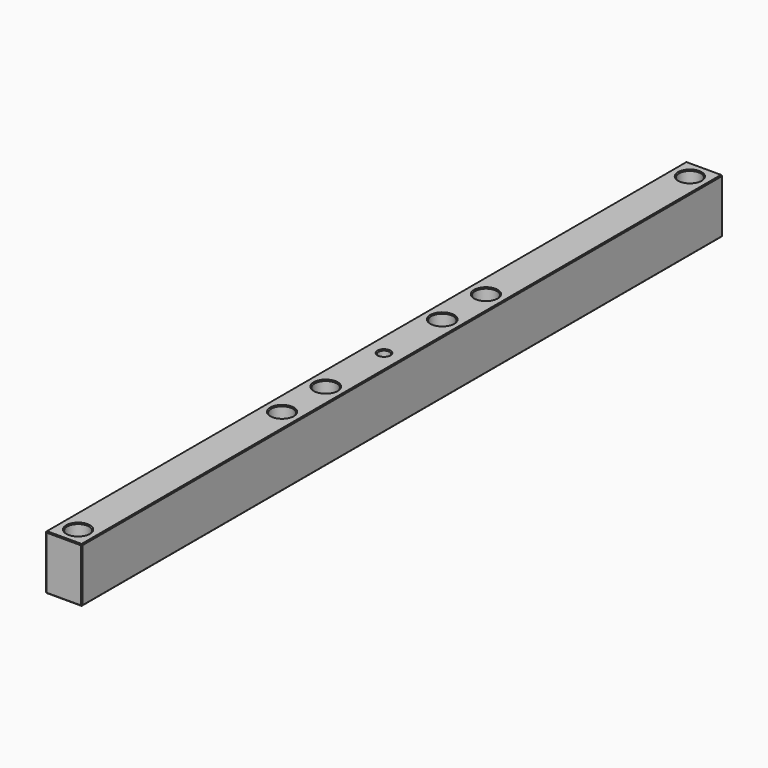
from build123d import *

# Parameters (mm, degrees)
SKETCH_W        = 10
SKETCH_H        = 15
PAD_DEPTH       = 220
SKETCH001_R     = 3
POCKET_DEPTH    = 15.001
SKETCH002_R     = 3.05
SKETCH002_R_2   = 1.55
POCKET001_DEPTH = 15.001
SKETCH003_R     = 1.5
POCKET002_DEPTH = 5
CHAMFER_SIZE    = 0.25


with BuildPart() as part:
    # Sketch → Pad (new body)
    with BuildSketch(Plane.XZ):
        with Locations((5, 7.5)):
            Rectangle(SKETCH_W, SKETCH_H)
    extrude(amount=PAD_DEPTH)

    # Sketch001 (on Face3 of Pad) → Pocket (cut, through all)
    with BuildSketch(Plane(origin=(0, 0, 15), x_dir=(-1, 0, 0), z_dir=(0, 0, 1))):
        with Locations((-5, 215)):
            Circle(SKETCH001_R)
        with Locations((-5, 145)):
            Circle(SKETCH001_R)
        with Locations((-5, 75)):
            Circle(SKETCH001_R)
        with Locations((-5, 5)):
            Circle(SKETCH001_R)
    extrude(amount=-POCKET_DEPTH, mode=Mode.SUBTRACT)

    # Sketch002 (on Face10 of Pocket) → Pocket001 (cut, through all)
    with BuildSketch(Plane(origin=(0, 0, 15), x_dir=(-1, 0, 0), z_dir=(0, 0, 1))):
        with Locations((-5, 130)):
            Circle(SKETCH002_R)
        with Locations((-5, 110)):
            Circle(SKETCH002_R_2)
        with Locations((-5, 90)):
            Circle(SKETCH002_R)
    extrude(amount=-POCKET001_DEPTH, mode=Mode.SUBTRACT)

    # Sketch003 (on Face2 of Pocket001) → Pocket002 (cut)
    with BuildSketch(Plane(origin=(0, 0, 0), x_dir=(0, 0, -1), z_dir=(-1, 0, 0))):
        with Locations((-7.5, 130)):
            Circle(SKETCH003_R)
        with Locations((-7.5, 110)):
            Circle(SKETCH003_R)
        with Locations((-7.5, 90)):
            Circle(SKETCH003_R)
    extrude(amount=-POCKET002_DEPTH, mode=Mode.SUBTRACT)

    # Chamfer
    chamfer_edges = [part.edges().sort_by_distance(p)[0] for p in [
        (0, -110, 15),
        (0, 0, 7.5),
        (0, -220, 7.5),
        (0, -110, 0),
        (0, -130, 9),
        (0, -110, 9),
        (0, -90, 9),
        (10, -110, 15),
        (5, 0, 15),
        (5, -220, 15),
        (8.05, -130, 15),
        (6.55, -110, 15),
        (8.05, -90, 15),
        (8, -75, 15),
        (8, -5, 15),
        (8, -215, 15),
        (8, -145, 15),
        (5, -220, 0),
        (10, -220, 7.5),
        (5, 0, 0),
        (10, -110, 0),
        (8.05, -130, 0),
        (6.55, -110, 0),
        (8.05, -90, 0),
        (8, -75, 0),
        (8, -5, 0),
        (8, -215, 0),
        (8, -145, 0),
        (10, 0, 7.5),
    ]]
    chamfer(chamfer_edges, length=CHAMFER_SIZE)


solid = part.part
